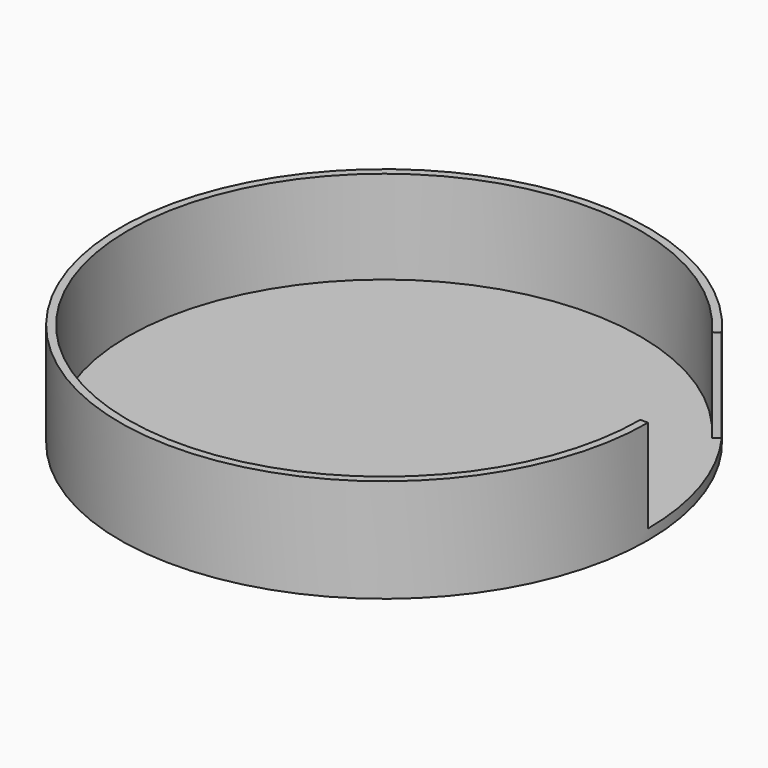
from build123d import *

# Parameters (mm, degrees)
F0_R     = 51
F1_DEPTH = 20
F3_DEPTH = 18


with BuildPart() as f1:
    # F0 (on Top) → F1 (new body)
    with BuildSketch(Plane.XY):
        Circle(F0_R)
    extrude(amount=F1_DEPTH)

    # F2 (on face) → F3 (cut)
    with BuildSketch(Plane.XY.offset(20)):
        with BuildLine():
            Line((0, 0), (49.5, 0))
            ThreePointArc((49.5, 0), (47.0772975566, 15.2963412216), (40.0463412216, 29.0953699885))
            Line((40.0463412216, 29.0953699885), (0, 0))
        make_face()
        with BuildLine():
            ThreePointArc((40.0463412216, 29.0953699885), (-47.0772975566, -15.2963412216), (49.5, 0))
            Line((49.5, 0), (0, 0))
            Line((0, 0), (40.0463412216, 29.0953699885))
        make_face()
        with BuildLine():
            ThreePointArc((40.0463412216, 29.0953699885), (47.0772975566, 15.2963412216), (49.5, 0))
            Line((49.5, 0), (51, 0))
            ThreePointArc((51, 0), (48.5038823311, 15.7598667131), (41.2598667131, 29.9770478669))
            Line((41.2598667131, 29.9770478669), (40.0463412216, 29.0953699885))
        make_face()
    extrude(amount=-F3_DEPTH, mode=Mode.SUBTRACT)


solid = f1.part
